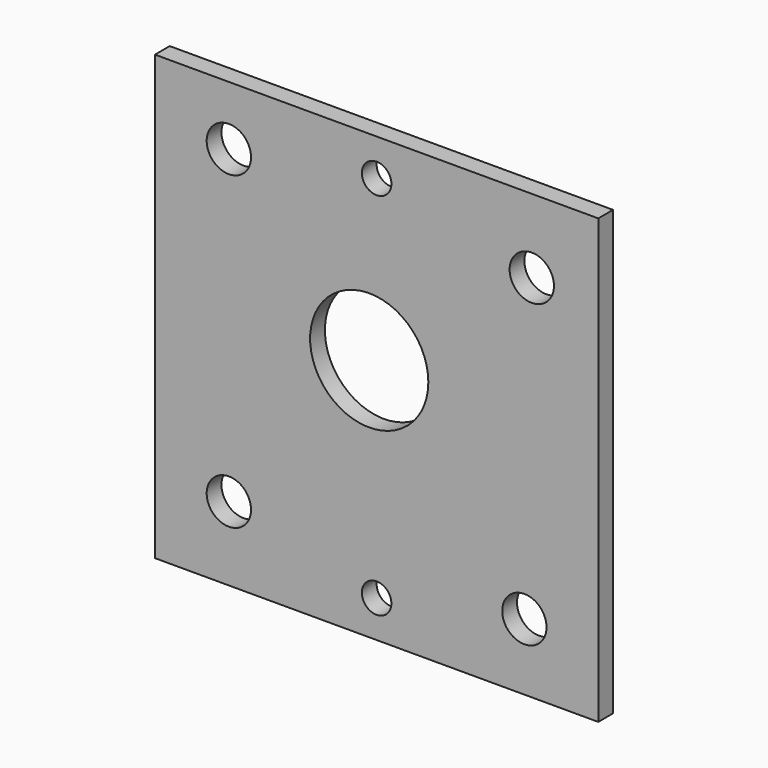
from build123d import *

# Parameters (mm, degrees)
F0_W     = 60
F0_H     = 60
F0_R     = 3
F0_R_2   = 8
F1_DEPTH = 2.5
F3_R     = 2
F4_DEPTH = 25


with BuildPart() as f1:
    # F0 (on Front) → F1 (new body)
    with BuildSketch(Plane.XZ):
        Rectangle(F0_W, F0_H)
        with Locations((-20, -20)):
            Circle(F0_R, mode=Mode.SUBTRACT)
        with Locations((20, -21)):
            Circle(F0_R, mode=Mode.SUBTRACT)
        with Locations((-1, 3)):
            Circle(F0_R_2, mode=Mode.SUBTRACT)
        with Locations((-20, 22)):
            Circle(F0_R, mode=Mode.SUBTRACT)
        with Locations((21, 20)):
            Circle(F0_R, mode=Mode.SUBTRACT)
    extrude(amount=F1_DEPTH)

    # F3 (on face) → F4 (cut)
    with BuildSketch(Plane.XZ.offset(2.5)):
        with Locations((0, 25)):
            Circle(F3_R)
        with Locations((0, -25)):
            Circle(F3_R)
    extrude(amount=-F4_DEPTH, mode=Mode.SUBTRACT)


solid = f1.part
